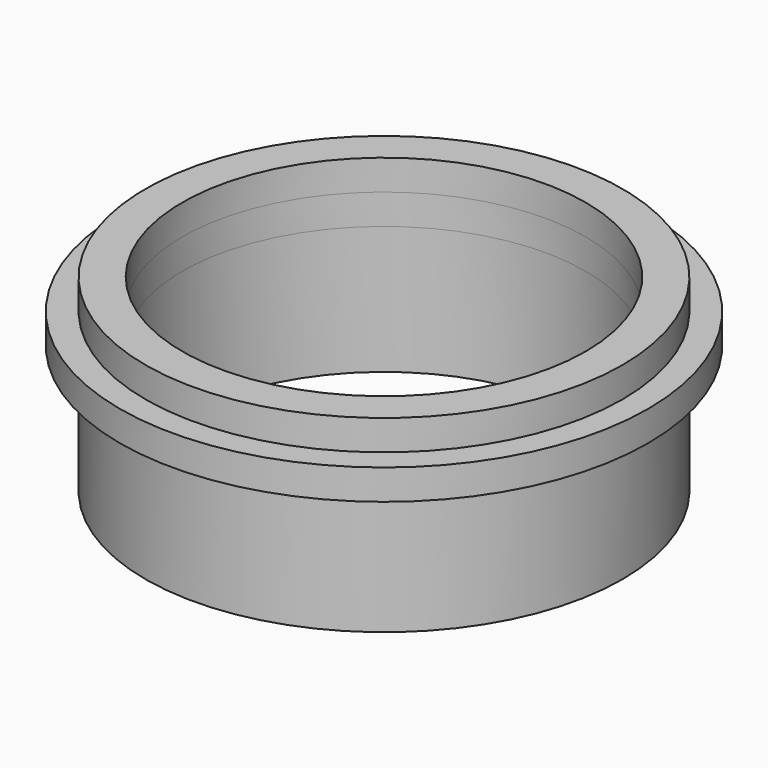
from build123d import *

# Parameters (mm, degrees)
F1_R          = 23.6474
F1_R_2        = 20
F2_DEPTH      = 3
F2_DEPTH_BACK = 15.7
F1_R_3        = 26.1874
F3_DEPTH      = 3


with BuildPart() as f2:
    # F1 (on Top) → F2 (new body, two sides)
    with BuildSketch(Plane.XY) as f2_sk:
        Circle(F1_R)
        Circle(F1_R_2, mode=Mode.SUBTRACT)
    extrude(amount=F2_DEPTH)
    extrude(f2_sk.sketch, amount=-F2_DEPTH_BACK)

    # F1 (on Top) → F3 (join)
    with BuildSketch(Plane.XY):
        Circle(F1_R_3)
        Circle(F1_R, mode=Mode.SUBTRACT)
        Circle(F1_R)
        Circle(F1_R_2, mode=Mode.SUBTRACT)
    extrude(amount=-F3_DEPTH)


solid = f2.part
